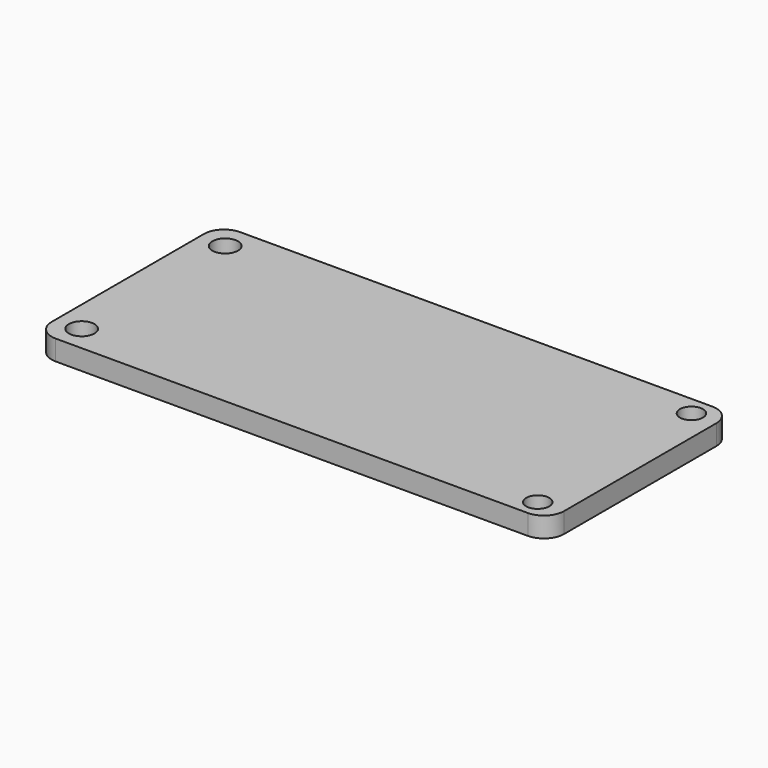
from build123d import *

# Parameters (mm, degrees)
F0_R     = 1.27
F0_R_2   = 1.143
F1_DEPTH = 2


with BuildPart() as f1:
    # F0 (on Top) → F1 (new body)
    with BuildSketch(Plane.XY):
        with BuildLine():
            Line((23.4, 11.43), (-23.4, 11.43))
            ThreePointArc((-23.4, 11.43), (-24.814214, 10.844214), (-25.4, 9.43))
            Line((-25.4, 9.43), (-25.4, -9.43))
            ThreePointArc((-25.4, -9.43), (-24.814214, -10.844214), (-23.4, -11.43))
            Line((-23.4, -11.43), (23.4, -11.43))
            ThreePointArc((23.4, -11.43), (24.814214, -10.844214), (25.4, -9.43))
            Line((25.4, -9.43), (25.4, 9.43))
            ThreePointArc((25.4, 9.43), (24.814214, 10.844214), (23.4, 11.43))
        make_face()
        with Locations((-22.86, -8.89)):
            Circle(F0_R, mode=Mode.SUBTRACT)
        with Locations((22.86, -9.525)):
            Circle(F0_R_2, mode=Mode.SUBTRACT)
        with Locations((-22.86, 8.89)):
            Circle(F0_R, mode=Mode.SUBTRACT)
        with Locations((22.86, 9.525)):
            Circle(F0_R_2, mode=Mode.SUBTRACT)
    extrude(amount=F1_DEPTH)


solid = f1.part
